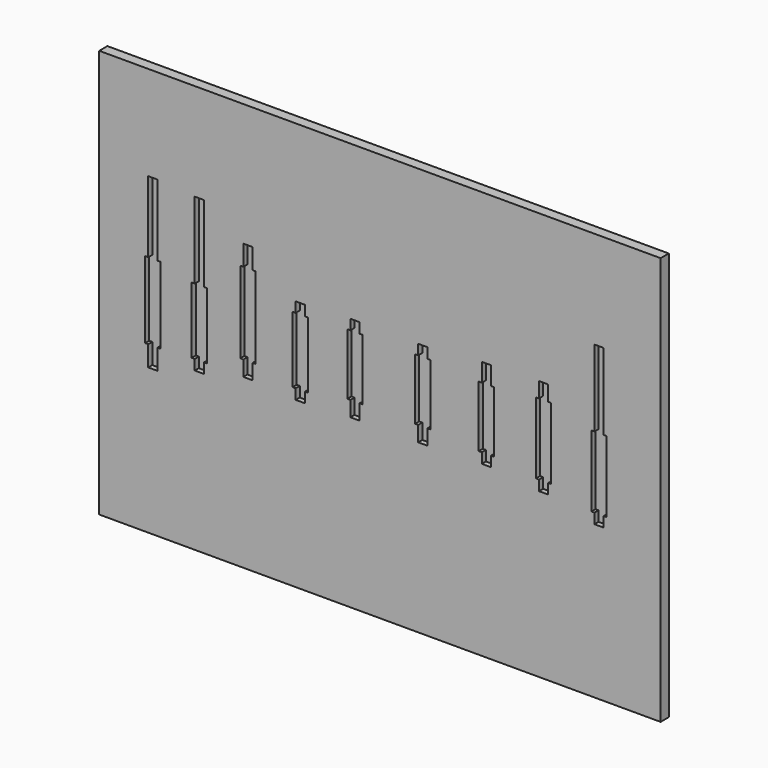
from build123d import *

# Parameters (mm, degrees)
F0_W     = 550
F0_H     = 400
F1_DEPTH = 10
F2_W     = 9
F2_H     = 20
F2_H_2   = 70
F2_H_3   = 10
F2_H_4   = 75
F2_H_5   = 15
F2_H_6   = 18
F3_DEPTH = 5


with BuildPart() as f1:
    # F0 (on Front) → F1 (new body)
    with BuildSketch(Plane.XZ):
        Rectangle(F0_W, F0_H)
    extrude(amount=F1_DEPTH)

    # F2 (on face) → F3 (cut)
    with BuildSketch(Plane.XZ.offset(10)):
        Polygon((-218.013464, -37.5), (-215.013464, -37.5), (-215.013464, 37.5), (-218.013464, 37.5), (-227.013464, 37.5), (-230.013464, 37.5), (-230.013464, -37.5), (-227.013464, -37.5), align=None)
        with Locations((-222.513464, -47.5)):
            Rectangle(F2_W, F2_H)
        with Locations((-222.513464, 72.5)):
            Rectangle(F2_W, F2_H_2)
        Polygon((219.224181, -40.562903), (222.224181, -40.562903), (222.224181, 29.437097), (219.224181, 29.437097), (210.224181, 29.437097), (207.224181, 29.437097), (207.224181, -40.562903), (210.224181, -40.562903), align=None)
        with Locations((214.724181, -45.562903)):
            Rectangle(F2_W, F2_H_3)
        with Locations((214.724181, 66.937097)):
            Rectangle(F2_W, F2_H_4)
        Polygon((-172.425557, -35.359889), (-169.425557, -35.359889), (-169.425557, 29.640111), (-172.425557, 29.640111), (-181.425557, 29.640111), (-184.425557, 29.640111), (-184.425557, -35.359889), (-181.425557, -35.359889), align=None)
        with Locations((-176.925557, -40.359889)):
            Rectangle(F2_W, F2_H_3)
        with Locations((-176.925557, 67.140111)):
            Rectangle(F2_W, F2_H_4)
        Polygon((-124.808628, -20.359889), (-121.808628, -20.359889), (-121.808628, 59.640111), (-124.808628, 59.640111), (-133.808628, 59.640111), (-136.808628, 59.640111), (-136.808628, -20.359889), (-133.808628, -20.359889), align=None)
        with Locations((-129.308628, -27.859889)):
            Rectangle(F2_W, F2_H_5)
        with Locations((-129.308628, 69.640111)):
            Rectangle(F2_W, F2_H)
        Polygon((-73.533672, -28.500006), (-70.533672, -28.500006), (-70.533672, 36.499994), (-73.533672, 36.499994), (-82.533672, 36.499994), (-85.533672, 36.499994), (-85.533672, -28.500006), (-82.533672, -28.500006), align=None)
        with Locations((-78.033672, -33.500006)):
            Rectangle(F2_W, F2_H_3)
        with Locations((-78.033672, 41.499994)):
            Rectangle(F2_W, F2_H_3)
        Polygon((-19.896116, -21.071613), (-16.896116, -21.071613), (-16.896116, 38.928387), (-19.896116, 38.928387), (-28.896116, 38.928387), (-31.896116, 38.928387), (-31.896116, -21.071613), (-28.896116, -21.071613), align=None)
        with Locations((-24.396116, -28.571613)):
            Rectangle(F2_W, F2_H_5)
        with Locations((-24.396116, 43.928387)):
            Rectangle(F2_W, F2_H_3)
        Polygon((46.493838, -21.071613), (49.493838, -21.071613), (49.493838, 38.928387), (46.493838, 38.928387), (37.493838, 38.928387), (34.493838, 38.928387), (34.493838, -21.071613), (37.493838, -21.071613), align=None)
        with Locations((41.993838, -28.571613)):
            Rectangle(F2_W, F2_H_5)
        with Locations((41.993838, 43.928387)):
            Rectangle(F2_W, F2_H_3)
        Polygon((108.827169, -24.357102), (111.827169, -24.357102), (111.827169, 35.642898), (108.827169, 35.642898), (99.827169, 35.642898), (96.827169, 35.642898), (96.827169, -24.357102), (99.827169, -24.357102), align=None)
        with Locations((104.327169, -29.357102)):
            Rectangle(F2_W, F2_H_3)
        with Locations((104.327169, 44.642898)):
            Rectangle(F2_W, F2_H_6)
        Polygon((164.842565, -29.71177), (167.842565, -29.71177), (167.842565, 40.28823), (164.842565, 40.28823), (155.842565, 40.28823), (152.842565, 40.28823), (152.842565, -29.71177), (155.842565, -29.71177), align=None)
        with Locations((160.342565, -34.71177)):
            Rectangle(F2_W, F2_H_3)
        with Locations((160.342565, 47.78823)):
            Rectangle(F2_W, F2_H_5)
    extrude(amount=-F3_DEPTH, mode=Mode.SUBTRACT)


solid = f1.part
